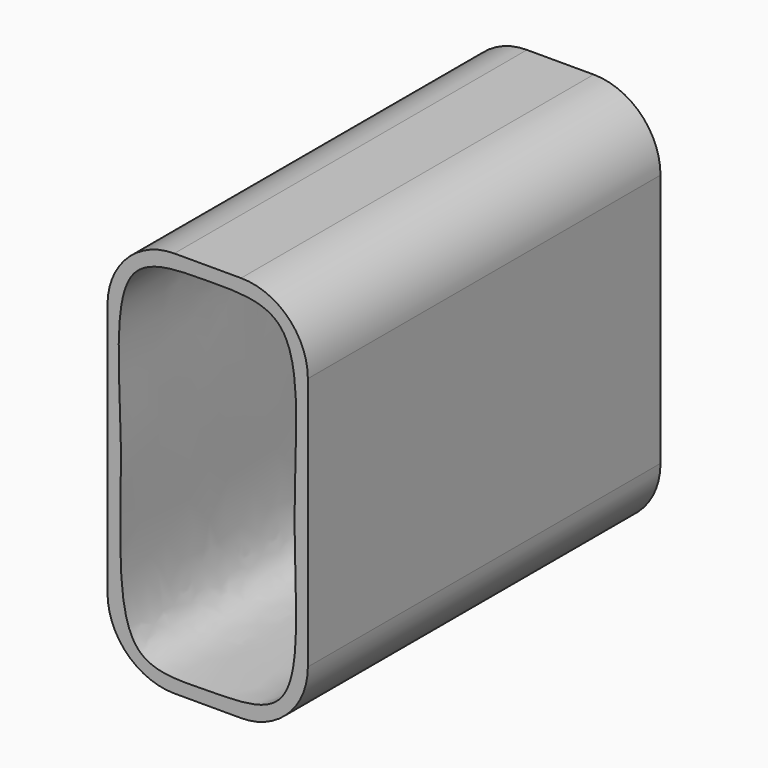
from build123d import *

# Parameters (mm, degrees)
F0_W     = 15
F0_H     = 33
F1_DEPTH = 29
F2_DEPTH = 10
F3_R     = 5
F5_DEPTH = 36


with BuildPart() as f1:
    # F0 (on Top) → F1 (new body)
    with BuildSketch(Plane.XY):
        with Locations((34.8802354336, -0.6172656119)):
            Rectangle(F0_W, F0_H)
    extrude(amount=F1_DEPTH)

    # F0 (on Top) → F2 (join)
    with BuildSketch(Plane.XY):
        with Locations((34.8802354336, -0.6172656119)):
            Rectangle(F0_W, F0_H)
    extrude(amount=F2_DEPTH)

    # F3
    f3_edges = [f1.edges().sort_by_distance(p)[0] for p in [
        (42.380235, -0.617266, 0),
        (42.380235, -0.617266, 29),
        (27.380235, -0.617266, 29),
        (27.380235, -0.617266, 0),
    ]]
    fillet(f3_edges, radius=F3_R)

    # F4 (on face) → F5 (cut)
    with BuildSketch(Plane(origin=(0, 15.8827343881, 0), x_dir=(-1, 0, 0), z_dir=(0, 1, 0))):
        with BuildLine():
            add(Edge.make_bspline(
                [(-41.3802354336, 14.2938411075), (-41.3790345918, 9.235404149), (-42.4484331344, 0.837704678), (-34.8632266191, 1.1150708398), (-27.5471181262, 0.5907612309), (-28.962312756, 14.8177485766), (-27.278327172, 28.0526860673), (-34.8272768231, 27.9541246001), (-42.4853172603, 28.1838016291), (-41.3814565063, 19.4374990399), (-41.3802354336, 14.2938411075)],
                knots=[0, 0, 0, 0, 0.1478186618, 0.2490306002, 0.3478512784, 0.4997835139, 0.6468174161, 0.748148136, 0.8496909938, 1, 1, 1, 1], degree=3))
        make_face()
    extrude(amount=-F5_DEPTH, mode=Mode.SUBTRACT)


solid = f1.part
